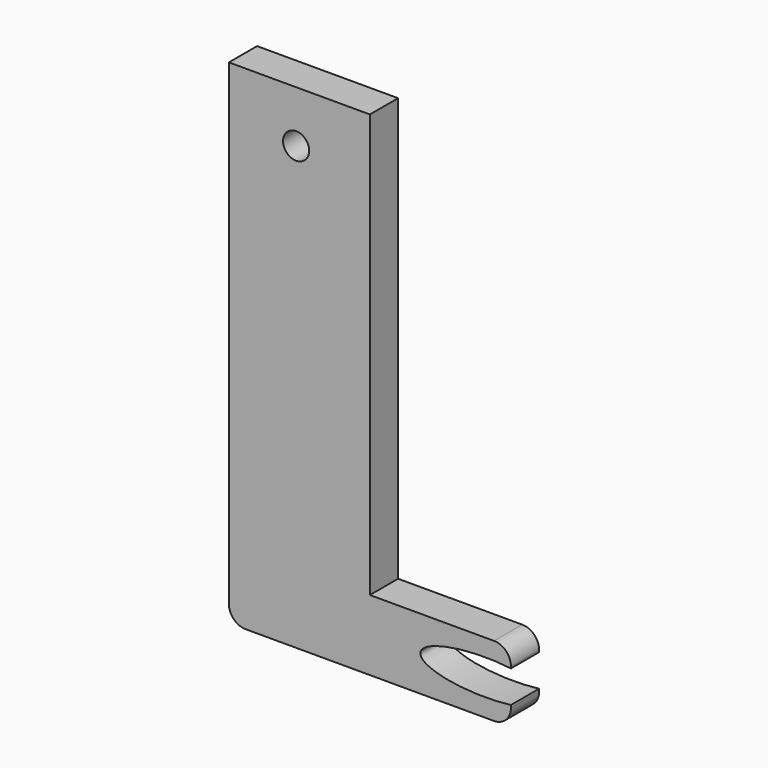
from build123d import *

# Parameters (mm, degrees)
F0_W     = 25.4
F0_H     = 76.2
F0_R     = 2.3495
F1_DEPTH = 6.35


with BuildPart() as f1:
    # F0 (on Front) → F1 (new body)
    with BuildSketch(Plane.XZ):
        with Locations((-38.1, 10.883943)):
            Rectangle(F0_W, F0_H)
        with Locations((-38.690675, 39.674234)):
            Circle(F0_R, mode=Mode.SUBTRACT)
        with BuildLine():
            Line((-25.4, -27.216057), (-50.8, -27.216057))
            Line((-50.8, -27.216057), (-50.8, -36.868057))
            ThreePointArc((-50.8, -36.868057), (-49.907261, -39.023318), (-47.752, -39.916057))
            Line((-47.752, -39.916057), (-3.048, -39.916057))
            ThreePointArc((-3.048, -39.916057), (-0.892739, -39.023318), (0, -36.868057))
            Line((0, -36.868057), (0, -36.396314))
            add(Edge.make_bspline(
                [(0, -30.599461), (-16.314539, -28.600201), (-16.314539, -33.497887), (-16.314539, -38.395574), (0, -36.396314)],
                knots=[1.150309, 1.150309, 1.150309, 3.141593, 3.141593, 5.132876, 5.132876, 5.132876], degree=2, weights=[1, 0.543965, 1, 0.543965, 1]))
            Line((0, -30.599461), (0, -30.264057))
            ThreePointArc((0, -30.264057), (-0.892739, -28.108795), (-3.048, -27.216057))
            Line((-3.048, -27.216057), (-25.4, -27.216057))
        make_face()
    extrude(amount=F1_DEPTH)


solid = f1.part
